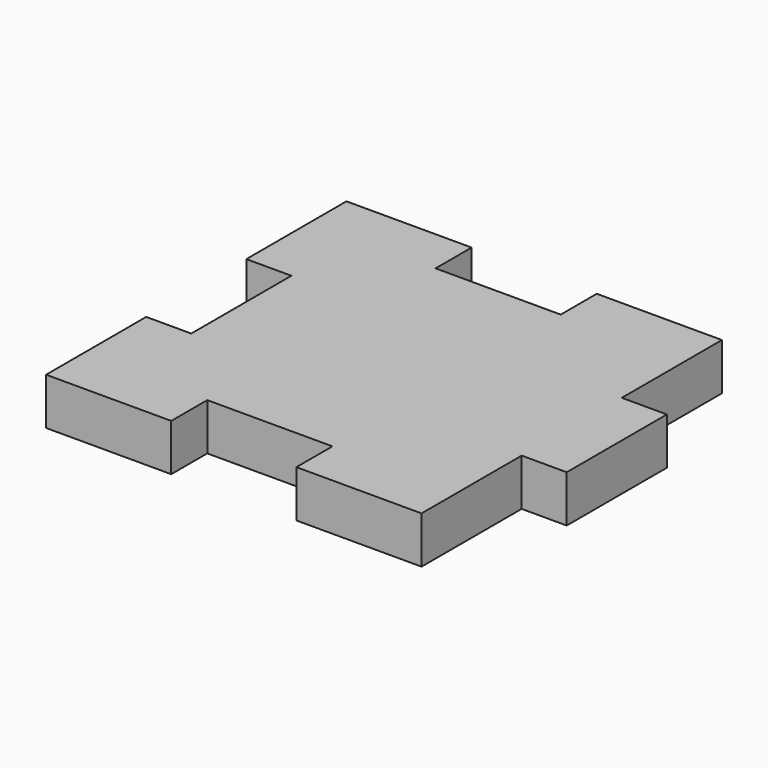
from build123d import *

# Parameters (mm, degrees)
F1_DEPTH = 3.175


with BuildPart() as f1:
    # F0 (on Top) → F1 (new body)
    with BuildSketch(Plane.XY):
        Polygon((-18.730867, 17.595609), (-27.197534, 17.595609), (-27.197534, 9.128943), (-24.149534, 9.128943), (-24.149534, 0.662276), (-27.197534, 0.662276), (-27.197534, -7.804391), (-18.730867, -7.804391), (-18.730867, -4.756391), (-10.2642, -4.756391), (-10.2642, -7.804391), (-1.797534, -7.804391), (-1.797534, 0.662276), (1.250466, 0.662276), (1.250466, 9.128943), (-1.797534, 9.128943), (-1.797534, 17.595609), (-10.2642, 17.595609), (-10.2642, 14.547609), (-18.730867, 14.547609), align=None)
    extrude(amount=F1_DEPTH)


solid = f1.part
